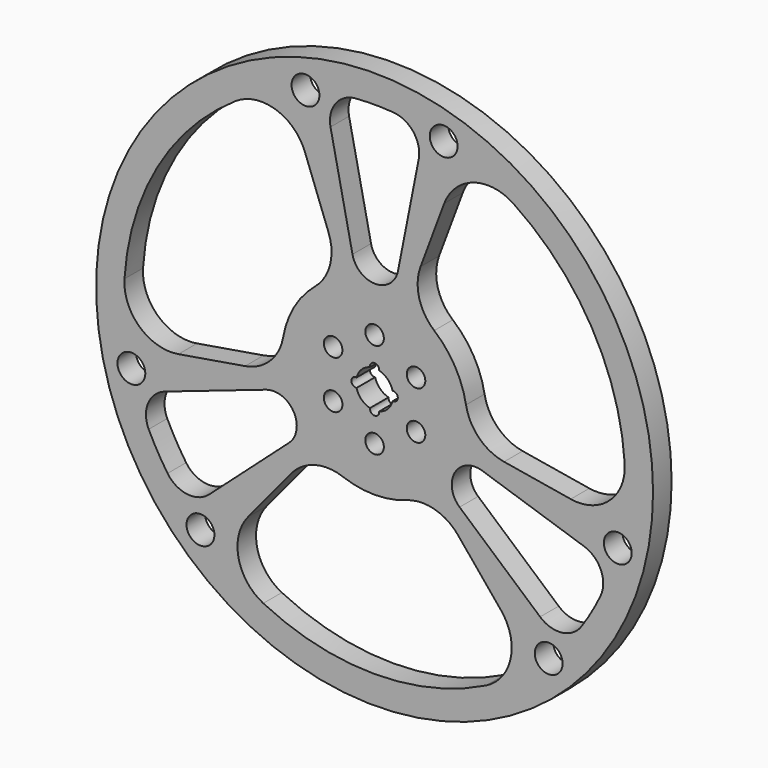
from build123d import *

# Parameters (mm, degrees)
F0_R     = 1524
F0_R_2   = 76.2
F0_R_3   = 381
F0_R_4   = 50.8
F1_DEPTH = 127


with BuildPart() as f1:
    # F0 (on Front) → F1 (new body)
    with BuildSketch(Plane.XZ):
        Circle(F0_R)
        with Locations((-952.793421, -986.64647)):
            Circle(F0_R_2, mode=Mode.SUBTRACT)
        with BuildLine():
            ThreePointArc((-1132.816748, -773.312857), (-1187.840444, -685.8), (-1236.116953, -594.391653))
            ThreePointArc((-1236.116953, -594.391653), (-1239.14932, -469.02207), (-1147.127855, -383.823611))
            Line((-1147.127855, -383.823611), (-593.112844, -194.661354))
            ThreePointArc((-593.112844, -194.661354), (-442.829926, -251.598459), (-468.662406, -410.215835))
            Line((-468.662406, -410.215835), (-905.964925, -801.530058))
            ThreePointArc((-905.964925, -801.530058), (-1025.759688, -838.623755), (-1132.816748, -773.312857))
        make_face(mode=Mode.SUBTRACT)
        with Locations((-1330.857618, -331.820072)):
            Circle(F0_R_2, mode=Mode.SUBTRACT)
        with BuildLine():
            ThreePointArc((-456.971626, -554.350911), (-327.727364, -470.842027), (-173.985988, -477.276519))
            ThreePointArc((-173.985988, -477.276519), (0, -508), (173.985988, -477.276519))
            ThreePointArc((173.985988, -477.276519), (327.727364, -470.842027), (456.971626, -554.350911))
            Line((456.971626, -554.350911), (692.27808, -839.800465))
            ThreePointArc((692.27808, -839.800465), (744.671817, -1054.469942), (609.07758, -1228.947135))
            ThreePointArc((609.07758, -1228.947135), (0, -1371.6), (-609.07758, -1228.947135))
            ThreePointArc((-609.07758, -1228.947135), (-744.671817, -1054.469942), (-692.27808, -839.800465))
            Line((-692.27808, -839.800465), (-456.971626, -554.350911))
        make_face(mode=Mode.SUBTRACT)
        with Locations((952.793421, -986.64647)):
            Circle(F0_R_2, mode=Mode.SUBTRACT)
        with BuildLine():
            ThreePointArc((1236.116953, -594.391653), (1187.840444, -685.8), (1132.816748, -773.312857))
            ThreePointArc((1132.816748, -773.312857), (1025.759688, -838.623755), (905.964925, -801.530058))
            Line((905.964925, -801.530058), (465.1381, -416.320113))
            ThreePointArc((465.1381, -416.320113), (439.30562, -257.702736), (589.588537, -200.765632))
            Line((589.588537, -200.765632), (1147.127855, -383.823611))
            ThreePointArc((1147.127855, -383.823611), (1239.14932, -469.02207), (1236.116953, -594.391653))
        make_face(mode=Mode.SUBTRACT)
        with Locations((1330.857618, -331.820072)):
            Circle(F0_R_2, mode=Mode.SUBTRACT)
        with BuildLine():
            ThreePointArc((-500.326584, 87.961974), (-571.624839, -48.399209), (-708.567785, -118.573582))
            Line((-708.567785, -118.573582), (-1073.427576, -179.630171))
            ThreePointArc((-1073.427576, -179.630171), (-1285.533665, -117.66974), (-1368.838229, 86.99691))
            ThreePointArc((-1368.838229, 86.99691), (-1187.840444, 685.8), (-759.760649, 1141.950225))
            ThreePointArc((-759.760649, 1141.950225), (-540.861849, 1172.139682), (-381.149497, 1019.430636))
            Line((-381.149497, 1019.430636), (-251.596158, 672.924493))
            ThreePointArc((-251.596158, 672.924493), (-243.897475, 519.241236), (-326.340596, 389.314545))
            ThreePointArc((-326.340596, 389.314545), (-439.940905, 254), (-500.326584, 87.961974))
        make_face(mode=Mode.SUBTRACT)
        with BuildLine():
            ThreePointArc((103.300205, 1367.70451), (213.389632, 1307.645825), (241.16293, 1185.353669))
            Line((241.16293, 1185.353669), (127.974744, 610.981467))
            ThreePointArc((127.974744, 610.981467), (3.524306, 509.301195), (-120.926131, 610.981467))
            Line((-120.926131, 610.981467), (-241.16293, 1185.353669))
            ThreePointArc((-241.16293, 1185.353669), (-213.389632, 1307.645825), (-103.300205, 1367.70451))
            ThreePointArc((-103.300205, 1367.70451), (0, 1371.6), (103.300205, 1367.70451))
        make_face(mode=Mode.SUBTRACT)
        with Locations((-378.064197, 1318.466542)):
            Circle(F0_R_2, mode=Mode.SUBTRACT)
        Circle(F0_R_3, mode=Mode.SUBTRACT)
        with BuildLine():
            ThreePointArc((326.340596, 389.314545), (243.897475, 519.241236), (251.596158, 672.924493))
            Line((251.596158, 672.924493), (381.149497, 1019.430636))
            ThreePointArc((381.149497, 1019.430636), (540.861849, 1172.139682), (759.760649, 1141.950225))
            ThreePointArc((759.760649, 1141.950225), (1187.840444, 685.8), (1368.838229, 86.99691))
            ThreePointArc((1368.838229, 86.99691), (1285.533665, -117.66974), (1073.427576, -179.630171))
            Line((1073.427576, -179.630171), (708.567785, -118.573582))
            ThreePointArc((708.567785, -118.573582), (571.624839, -48.399209), (500.326584, 87.961974))
            ThreePointArc((500.326584, 87.961974), (439.940905, 254), (326.340596, 389.314545))
        make_face(mode=Mode.SUBTRACT)
        with Locations((378.064197, 1318.466542)):
            Circle(F0_R_2, mode=Mode.SUBTRACT)
        Circle(F0_R_3)
        with Locations((-226.776959, -130.929738)):
            Circle(F0_R_4, mode=Mode.SUBTRACT)
        with Locations((0, -261.859477)):
            Circle(F0_R_4, mode=Mode.SUBTRACT)
        with Locations((226.776959, -130.929738)):
            Circle(F0_R_4, mode=Mode.SUBTRACT)
        with Locations((-226.776959, 130.929738)):
            Circle(F0_R_4, mode=Mode.SUBTRACT)
        with BuildLine():
            ThreePointArc((-98.425, 25.200781), (-71.842049, 71.842049), (-25.200781, 98.425))
            ThreePointArc((-25.200781, 98.425), (0, 127), (25.200781, 98.425))
            ThreePointArc((25.200781, 98.425), (71.842049, 71.842049), (98.425, 25.200781))
            ThreePointArc((98.425, 25.200781), (127, 0), (98.425, -25.200781))
            ThreePointArc((98.425, -25.200781), (71.842049, -71.842049), (25.200781, -98.425))
            ThreePointArc((25.200781, -98.425), (0, -127), (-25.200781, -98.425))
            ThreePointArc((-25.200781, -98.425), (-71.842049, -71.842049), (-98.425, -25.200781))
            ThreePointArc((-98.425, -25.200781), (-127, 0), (-98.425, 25.200781))
        make_face(mode=Mode.SUBTRACT)
        with Locations((226.776959, 130.929738)):
            Circle(F0_R_4, mode=Mode.SUBTRACT)
        with Locations((0, 261.859477)):
            Circle(F0_R_4, mode=Mode.SUBTRACT)
    extrude(amount=F1_DEPTH)


solid = f1.part
